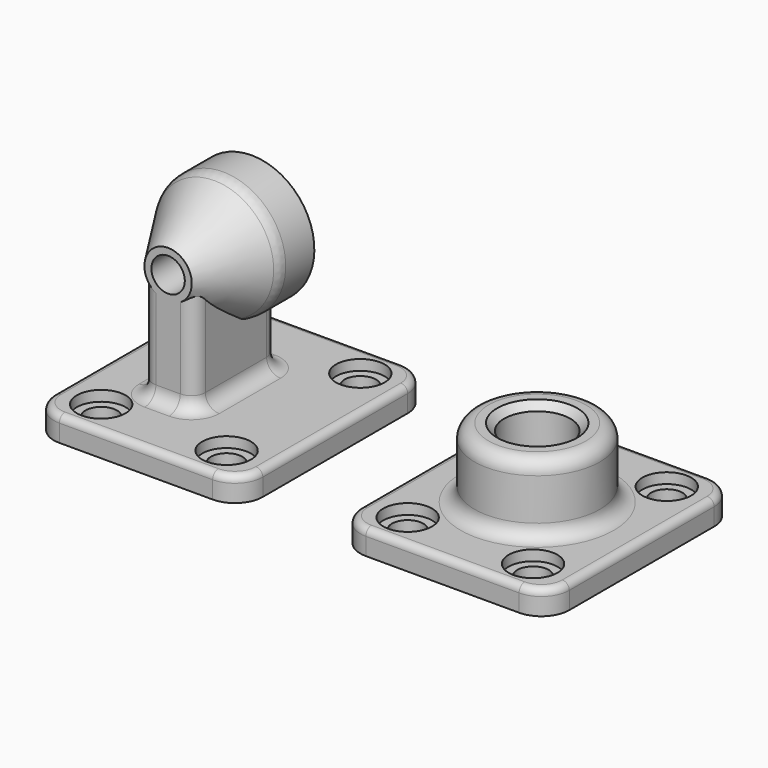
from build123d import *

# Parameters (mm, degrees)
PAD_DEPTH       = 3.5
SKETCH001_R     = 2.25
POCKET_DEPTH    = 3.501
SKETCH002_R     = 3.5
POCKET001_DEPTH = 1.5
PAD001_DEPTH    = 16.5
SKETCH004_R     = 9
POCKET002_DEPTH = 6
SKETCH005_R     = 9
SKETCH006_R     = 3.4
SKETCH007_R     = 4.75
POCKET003_DEPTH = 6
SKETCH008_R     = 2.4
POCKET004_DEPTH = 18.501
FILLET_R        = 3
CHAMFER_SIZE    = 1
FILLET005_R     = 2
FILLET006_R     = 1
PAD002_DEPTH    = 3.5
SKETCH016_R     = 2.25
POCKET006_DEPTH = 3.501
SKETCH015_R     = 3.5
POCKET007_DEPTH = 1.5
SKETCH018_R     = 9
PAD003_DEPTH    = 10
SKETCH019_R     = 4.75
POCKET008_DEPTH = 6
SKETCH020_R     = 2.4
POCKET009_DEPTH = 7.501
FILLET003_R     = 2
CHAMFER001_SIZE = 1
FILLET004_R     = 1


with BuildPart() as printer_end:
    # Sketch → Pad (new body)
    with BuildSketch(Plane.XY):
        with BuildLine():
            Line((0, 30), (22, 30))
            ThreePointArc((26, 26), (24.828427, 28.828427), (22, 30))
            Line((26, 26), (26, 0))
            ThreePointArc((22, -4), (24.828427, -2.828427), (26, 0))
            Line((22, -4), (0, -4))
            ThreePointArc((-4, 0), (-2.828427, -2.828427), (0, -4))
            Line((-4, 0), (-4, 26))
            ThreePointArc((0, 30), (-2.828427, 28.828427), (-4, 26))
        make_face()
    extrude(amount=PAD_DEPTH)

    # Sketch001 (on Face10 of Pad) → Pocket (cut, through all)
    with BuildSketch(Plane.XY.offset(3.5)):
        with Locations((2, 25)):
            Circle(SKETCH001_R)
        with Locations((20, 25)):
            Circle(SKETCH001_R)
        with Locations((20, 1)):
            Circle(SKETCH001_R)
        with Locations((2, 1)):
            Circle(SKETCH001_R)
    extrude(amount=-POCKET_DEPTH, mode=Mode.SUBTRACT)

    # Sketch002 (on Face5 of Pocket) → Pocket001 (cut)
    with BuildSketch(Plane.XY.offset(3.5)):
        with Locations((2, 25)):
            Circle(SKETCH002_R)
        with Locations((20, 25)):
            Circle(SKETCH002_R)
        with Locations((20, 1)):
            Circle(SKETCH002_R)
        with Locations((2, 1)):
            Circle(SKETCH002_R)
    extrude(amount=-POCKET001_DEPTH, mode=Mode.SUBTRACT)

    # Sketch003 (on Face5 of Pocket001) → Pad001 (join)
    with BuildSketch(Plane.XY.offset(3.5)):
        with BuildLine():
            Line((6.25, 20.5), (9.75, 20.5))
            ThreePointArc((11.75, 18.5), (11.164214, 19.914214), (9.75, 20.5))
            Line((11.75, 18.5), (11.75, 7.5))
            ThreePointArc((9.75, 5.5), (11.164214, 6.085786), (11.75, 7.5))
            Line((9.75, 5.5), (6.25, 5.5))
            ThreePointArc((4.25, 7.5), (4.835786, 6.085786), (6.25, 5.5))
            Line((4.25, 7.5), (4.25, 18.5))
            ThreePointArc((6.25, 20.5), (4.835786, 19.914214), (4.25, 18.5))
        make_face()
    extrude(amount=PAD001_DEPTH)

    # Sketch004 (on Face16 of Pad001) → Pocket002 (cut)
    with BuildSketch(Plane(origin=(0, 20.5, 0), x_dir=(-1, 0, 0), z_dir=(0, 1, 0))):
        with Locations((-8, 20)):
            Circle(SKETCH004_R)
    extrude(amount=-POCKET002_DEPTH, mode=Mode.SUBTRACT)

    # Sketch005 (on Face33 of Pocket002) → SubtractiveLoft section 0
    with BuildSketch(Plane(origin=(0, 14.5, 0), x_dir=(-1, 0, 0), z_dir=(0, 1, 0))):
        with Locations((-8, 20)):
            Circle(SKETCH005_R)
    # Sketch006 (on Face20 of Pocket002) → SubtractiveLoft section 1
    with BuildSketch(Plane.XZ.offset(-5.5)):
        with Locations((8, 20)):
            Circle(SKETCH006_R)
    loft(mode=Mode.SUBTRACT)

    # Sketch004 (on Face16 of Pad001) → AdditiveLoft section 0
    with BuildSketch(Plane(origin=(0, 20.5, 0), x_dir=(-1, 0, 0), z_dir=(0, 1, 0))):
        with Locations((-8, 20)):
            Circle(SKETCH004_R)
    # Sketch005 (on Face33 of Pocket002) → AdditiveLoft section 1
    with BuildSketch(Plane(origin=(0, 14.5, 0), x_dir=(-1, 0, 0), z_dir=(0, 1, 0))):
        with Locations((-8, 20)):
            Circle(SKETCH005_R)
    # Sketch006 (on Face20 of Pocket002) → AdditiveLoft section 2
    with BuildSketch(Plane.XZ.offset(-5.5)):
        with Locations((8, 20)):
            Circle(SKETCH006_R)
    loft(ruled=True)

    # Sketch007 (on Face31 of AdditiveLoft) → Pocket003 (cut)
    with BuildSketch(Plane(origin=(0, 20.5, 0), x_dir=(-1, 0, 0), z_dir=(0, 1, 0))):
        with Locations((-8, 20)):
            Circle(SKETCH007_R)
    extrude(amount=-POCKET003_DEPTH, mode=Mode.SUBTRACT)

    # Sketch008 (on Face40 of Pocket003) → Pocket004 (cut, through all)
    with BuildSketch(Plane(origin=(0, 14.5, 0), x_dir=(-1, 0, 0), z_dir=(0, 1, 0))):
        with Locations((-8, 20)):
            Circle(SKETCH008_R)
    extrude(amount=-POCKET004_DEPTH, mode=Mode.SUBTRACT)

    # Fillet
    fillet_edges = [printer_end.edges().sort_by_distance(p)[0] for p in [
        (8, 14.5, 29),
        (0.425371, 14.5, 15.139444),
        (15.574629, 14.5, 15.139444),
    ]]
    fillet(fillet_edges, radius=FILLET_R)

    # Chamfer
    chamfer_edges = [printer_end.edges().sort_by_distance(p)[0] for p in [
        (12.75, 20.5, 20),
    ]]
    chamfer(chamfer_edges, length=CHAMFER_SIZE)

    # Fillet005
    fillet005_edges = [printer_end.edges().sort_by_distance(p)[0] for p in [
        (4.25, 13, 3.5),
        (4.835786, 19.914214, 3.5),
        (8, 20.5, 3.5),
        (4.835786, 6.085786, 3.5),
        (11.164214, 19.914214, 3.5),
        (11.75, 13, 3.5),
        (11.164214, 6.085786, 3.5),
        (8, 5.5, 3.5),
    ]]
    fillet(fillet005_edges, radius=FILLET005_R)

    # Fillet006
    fillet006_edges = [printer_end.edges().sort_by_distance(p)[0] for p in [
        (-4, 13, 3.5),
        (-2.828427, 28.828427, 3.5),
        (11, 30, 3.5),
        (-2.828427, -2.828427, 3.5),
        (11, -4, 3.5),
        (24.828427, -2.828427, 3.5),
        (26, 13, 3.5),
        (24.828427, 28.828427, 3.5),
    ]]
    fillet(fillet006_edges, radius=FILLET006_R)


with BuildPart() as obj1:
    # Sketch017 → Pad002 (new body)
    with BuildSketch(Plane.XY):
        with BuildLine():
            Line((0, 30), (22, 30))
            ThreePointArc((26, 26), (24.828427, 28.828427), (22, 30))
            Line((26, 26), (26, 0))
            ThreePointArc((22, -4), (24.828427, -2.828427), (26, 0))
            Line((22, -4), (0, -4))
            ThreePointArc((-4, 0), (-2.828427, -2.828427), (0, -4))
            Line((-4, 0), (-4, 26))
            ThreePointArc((0, 30), (-2.828427, 28.828427), (-4, 26))
        make_face()
    extrude(amount=PAD002_DEPTH)

    # Sketch016 (on Face10 of Pad002) → Pocket006 (cut, through all)
    with BuildSketch(Plane.XY.offset(3.5)):
        with Locations((2, 25)):
            Circle(SKETCH016_R)
        with Locations((20, 25)):
            Circle(SKETCH016_R)
        with Locations((20, 1)):
            Circle(SKETCH016_R)
        with Locations((2, 1)):
            Circle(SKETCH016_R)
    extrude(amount=-POCKET006_DEPTH, mode=Mode.SUBTRACT)

    # Sketch015 (on Face5 of Pocket006) → Pocket007 (cut)
    with BuildSketch(Plane.XY.offset(3.5)):
        with Locations((2, 25)):
            Circle(SKETCH015_R)
        with Locations((20, 25)):
            Circle(SKETCH015_R)
        with Locations((20, 1)):
            Circle(SKETCH015_R)
        with Locations((2, 1)):
            Circle(SKETCH015_R)
    extrude(amount=-POCKET007_DEPTH, mode=Mode.SUBTRACT)

    # Sketch018 (on Face5 of Pocket007) → Pad003 (join)
    with BuildSketch(Plane.XY.offset(3.5)):
        with Locations((11, 13)):
            Circle(SKETCH018_R)
    extrude(amount=PAD003_DEPTH)

    # Sketch019 (on Face24 of Pad003) → Pocket008 (cut)
    with BuildSketch(Plane.XY.offset(13.5)):
        with Locations((11, 13)):
            Circle(SKETCH019_R)
    extrude(amount=-POCKET008_DEPTH, mode=Mode.SUBTRACT)

    # Sketch020 (on Face26 of Pocket008) → Pocket009 (cut, through all)
    with BuildSketch(Plane.XY.offset(7.5)):
        with Locations((11, 13)):
            Circle(SKETCH020_R)
    extrude(amount=-POCKET009_DEPTH, mode=Mode.SUBTRACT)

    # Fillet003
    fillet003_edges = [obj1.edges().sort_by_distance(p)[0] for p in [
        (2, 13, 3.5),
        (2, 13, 13.5),
    ]]
    fillet(fillet003_edges, radius=FILLET003_R)

    # Chamfer001
    chamfer001_edges = [obj1.edges().sort_by_distance(p)[0] for p in [
        (6.25, 13, 13.5),
    ]]
    chamfer(chamfer001_edges, length=CHAMFER001_SIZE)

    # Fillet004
    fillet004_edges = [obj1.edges().sort_by_distance(p)[0] for p in [
        (-4, 13, 3.5),
        (-2.828427, -2.828427, 3.5),
        (11, -4, 3.5),
        (24.828427, -2.828427, 3.5),
        (26, 13, 3.5),
        (24.828427, 28.828427, 3.5),
        (11, 30, 3.5),
        (-2.828427, 28.828427, 3.5),
    ]]
    fillet(fillet004_edges, radius=FILLET004_R)


with BuildPart() as obj1_1:
    # Body001 placement: moved
    add(obj1.part.moved(Location((44, 0, 0))))


solid = Compound([printer_end.part, obj1_1.part])
